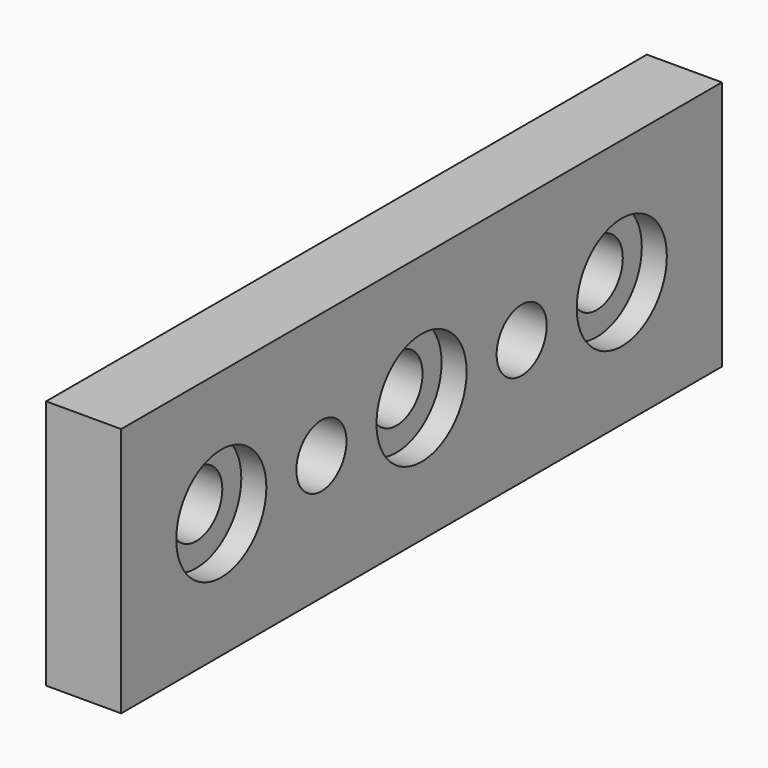
from build123d import *

# Parameters (mm, degrees)
F0_W     = 60
F0_H     = 20
F0_R     = 2.6
F1_DEPTH = 6
F2_R     = 4.5
F3_DEPTH = 2
F4_R     = 2.5
F5_DEPTH = 25


with BuildPart() as f1:
    # F0 (on Right) → F1 (new body)
    with BuildSketch(Plane.YZ):
        Rectangle(F0_W, F0_H)
        with Locations((-20, 0)):
            Circle(F0_R, mode=Mode.SUBTRACT)
        Circle(F0_R, mode=Mode.SUBTRACT)
        with Locations((20, 0)):
            Circle(F0_R, mode=Mode.SUBTRACT)
    extrude(amount=F1_DEPTH)

    # F2 (on face) → F3 (cut)
    with BuildSketch(Plane.YZ.offset(6)):
        with Locations((-20, 0)):
            Circle(F2_R)
        Circle(F2_R)
        with Locations((20, 0)):
            Circle(F2_R)
    extrude(amount=-F3_DEPTH, mode=Mode.SUBTRACT)

    # F4 (on face) → F5 (cut)
    with BuildSketch(Plane.YZ.offset(6)):
        with Locations((-10, 0)):
            Circle(F4_R)
        with Locations((10, 0)):
            Circle(F4_R)
    extrude(amount=-F5_DEPTH, mode=Mode.SUBTRACT)


solid = f1.part
